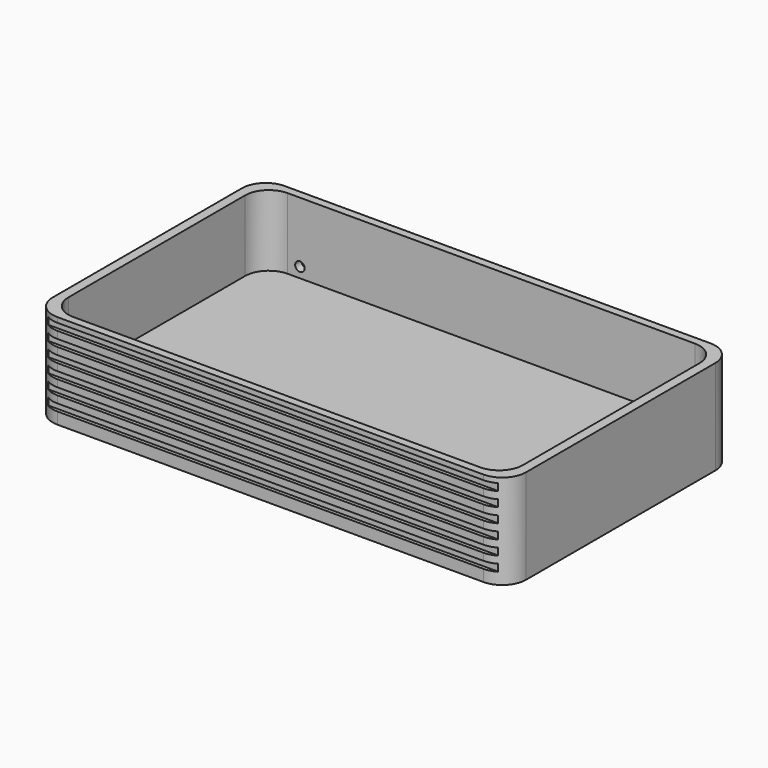
from build123d import *

# Parameters (mm, degrees)
F1_DEPTH = 20
F2_DEPTH = 5
F3_W     = 95
F3_H     = 1.5
F4_DEPTH = 0.75
F5_R     = 1
F6_DEPTH = 25


with BuildPart() as f1:
    # F0 (on Top) → F1 (new body)
    with BuildSketch(Plane.XY):
        with BuildLine():
            Line((-45, -30), (45, -30))
            ThreePointArc((45, -30), (48.535534, -28.535534), (50, -25))
            Line((50, -25), (50, 25))
            ThreePointArc((50, 25), (48.535534, 28.535534), (45, 30))
            Line((45, 30), (-45, 30))
            ThreePointArc((-45, 30), (-48.535534, 28.535534), (-50, 25))
            Line((-50, 25), (-50, -25))
            ThreePointArc((-50, -25), (-48.535534, -28.535534), (-45, -30))
        make_face()
        with BuildLine():
            ThreePointArc((-48, 23.32691), (-46.535534, 26.862444), (-43, 28.32691))
            Line((-43, 28.32691), (43, 28.32691))
            ThreePointArc((43, 28.32691), (46.535534, 26.862444), (48, 23.32691))
            Line((48, 23.32691), (48, -23.32691))
            ThreePointArc((48, -23.32691), (46.535534, -26.862444), (43, -28.32691))
            Line((43, -28.32691), (-43, -28.32691))
            ThreePointArc((-43, -28.32691), (-46.535534, -26.862444), (-48, -23.32691))
            Line((-48, -23.32691), (-48, 23.32691))
        make_face(mode=Mode.SUBTRACT)
    extrude(amount=F1_DEPTH)

    # F0 (on Top) → F2 (join)
    with BuildSketch(Plane.XY):
        with BuildLine():
            Line((43, 28.32691), (-43, 28.32691))
            ThreePointArc((-43, 28.32691), (-46.535534, 26.862444), (-48, 23.32691))
            Line((-48, 23.32691), (-48, -23.32691))
            ThreePointArc((-48, -23.32691), (-46.535534, -26.862444), (-43, -28.32691))
            Line((-43, -28.32691), (43, -28.32691))
            ThreePointArc((43, -28.32691), (46.535534, -26.862444), (48, -23.32691))
            Line((48, -23.32691), (48, 23.32691))
            ThreePointArc((48, 23.32691), (46.535534, 26.862444), (43, 28.32691))
        make_face()
    extrude(amount=F2_DEPTH)

    # F3 (on face) → F4 (cut)
    with BuildSketch(Plane.XZ.offset(30)):
        with Locations((0, 3.196598)):
            Rectangle(F3_W, F3_H)
        with Locations((0, 6.196598)):
            Rectangle(F3_W, F3_H)
        with Locations((0, 9.196598)):
            Rectangle(F3_W, F3_H)
        with Locations((0, 12.196598)):
            Rectangle(F3_W, F3_H)
        with Locations((0, 15.196598)):
            Rectangle(F3_W, F3_H)
        with Locations((0, 18.196598)):
            Rectangle(F3_W, F3_H)
    extrude(amount=-F4_DEPTH, mode=Mode.SUBTRACT)

    # F5 (on face) → F6 (cut)
    with BuildSketch(Plane.XZ.offset(-28.32691)):
        with Locations((-40.428117, 7.180942)):
            Circle(F5_R)
    extrude(amount=-F6_DEPTH, mode=Mode.SUBTRACT)


solid = f1.part
